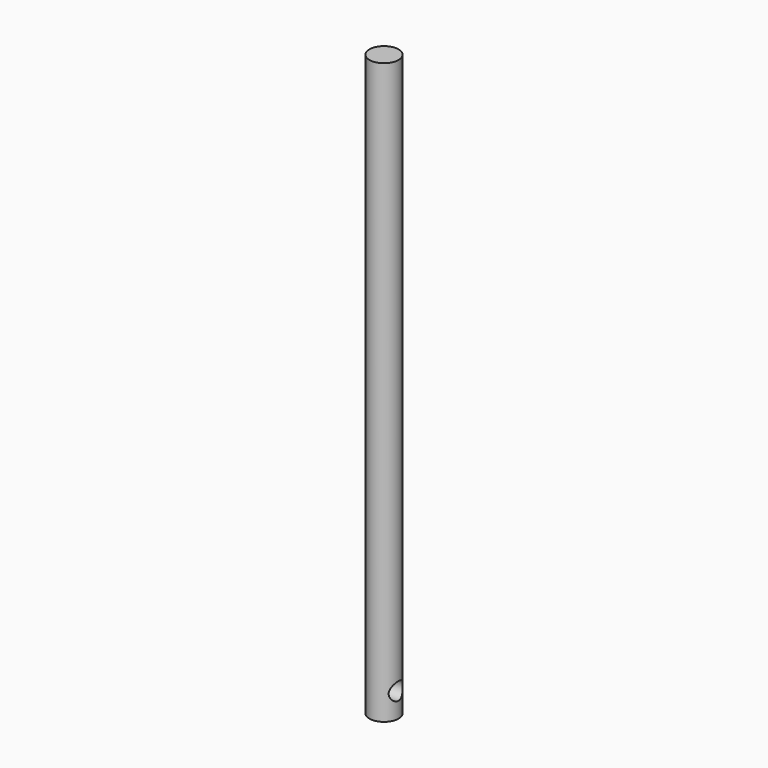
from build123d import *

# Parameters (mm, degrees)
F0_R     = 6.35
F1_DEPTH = 254
F2_R     = 3.81
F3_DEPTH = 12.7


with BuildPart() as f1:
    # F0 (on Top) → F1 (new body)
    with BuildSketch(Plane.XY):
        Circle(F0_R)
    extrude(amount=F1_DEPTH)

    # F2 (on Right) → F3 (cut, symmetric)
    with BuildSketch(Plane.YZ):
        with Locations((0, 10.698487)):
            Circle(F2_R)
    extrude(amount=F3_DEPTH, both=True, mode=Mode.SUBTRACT)


solid = f1.part
